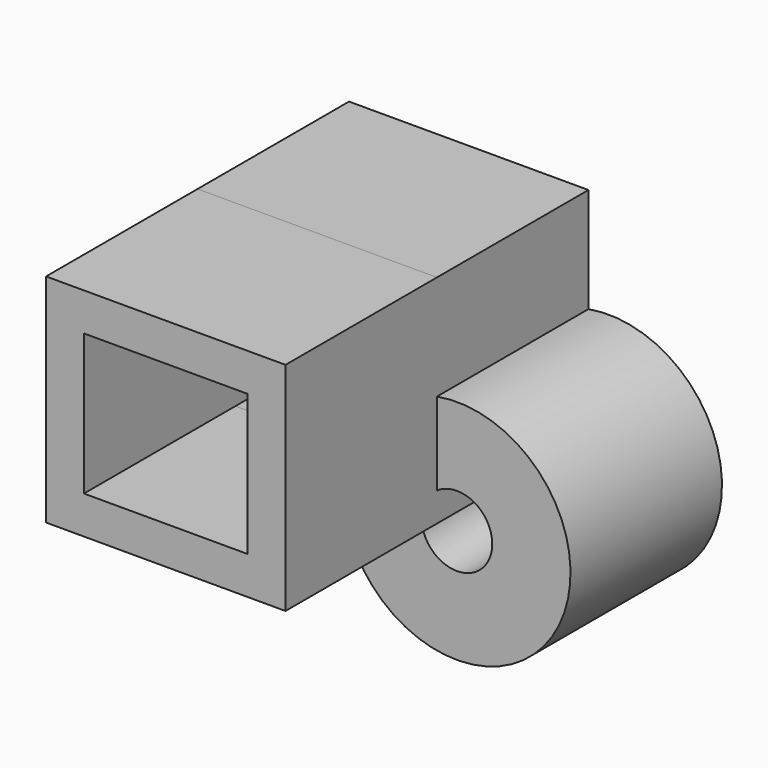
from build123d import *

# Parameters (mm, degrees)
F1_W        = 31.608998
F1_H        = 28.611593
F1_W_2      = 21.608998
F1_H_2      = 18.611593
F2_DEPTH    = 25
F2_FACE_W   = 31.608998
F2_FACE_H   = 28.611592
F2_FACE_W_2 = 21.608998
F2_FACE_H_2 = 18.611592
F0_R        = 15
F0_R_2      = 4.665992
F3_DEPTH    = 25


with BuildPart() as f2:
    # F1 (on Front) → F2 (new body)
    with BuildSketch(Plane.XZ):
        with Locations((-18.438582, 14.305796)):
            Rectangle(F1_W, F1_H)
        with Locations((-18.438582, 14.305796)):
            Rectangle(F1_W_2, F1_H_2, mode=Mode.SUBTRACT)
    extrude(amount=F2_DEPTH)

    # F2_face (on face) + F0 (on Front) → F3 (join)
    with BuildSketch(Plane(origin=(-18.438582, -25, 14.305796), x_dir=(1, 0, 0), z_dir=(0, -1, 0))):
        Rectangle(F2_FACE_W, F2_FACE_H)
        Rectangle(F2_FACE_W_2, F2_FACE_H_2, mode=Mode.SUBTRACT)
    with BuildSketch(Plane.XZ):
        Circle(F0_R)
        Circle(F0_R_2, mode=Mode.SUBTRACT)
    extrude(amount=F3_DEPTH)


solid = f2.part
